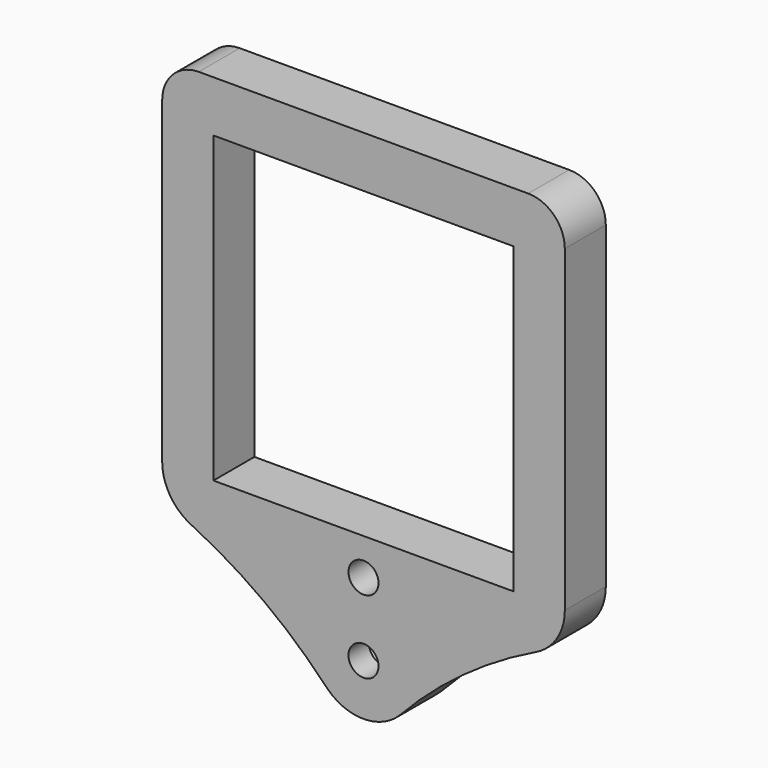
from build123d import *

# Parameters (mm, degrees)
F0_R     = 2.05
F0_W     = 41
F0_H     = 41.5
F1_DEPTH = 3.5
F2_DEPTH = 3.5


with BuildPart() as f1:
    # F0 (on Front) → F1 (new body, symmetric)
    with BuildSketch(Plane.XZ):
        with BuildLine():
            ThreePointArc((-23.473703, -27.086962), (-13.562491, -33.051517), (-4.91486, -40.73439))
            ThreePointArc((-4.91486, -40.73439), (0, -42.75), (4.91486, -40.73439))
            ThreePointArc((4.91486, -40.73439), (13.562491, -33.051517), (23.473703, -27.086962))
            ThreePointArc((23.473703, -27.086962), (26.408296, -24.503936), (27.5, -20.75))
            Line((27.5, -20.75), (27.5, 22.75))
            ThreePointArc((27.5, 22.75), (26.035534, 26.285534), (22.5, 27.75))
            Line((22.5, 27.75), (-22.5, 27.75))
            ThreePointArc((-22.5, 27.75), (-26.035534, 26.285534), (-27.5, 22.75))
            Line((-27.5, 22.75), (-27.5, -20.75))
            ThreePointArc((-27.5, -20.75), (-26.408296, -24.503936), (-23.473703, -27.086962))
        make_face()
        Polygon((4.308476, -33.2625), (4.308476, -38.2375), (0, -40.725), (-4.308476, -38.2375), (-4.308476, -33.2625), (0, -30.775), align=None, mode=Mode.SUBTRACT)
        with Locations((0, -25.75)):
            Circle(F0_R, mode=Mode.SUBTRACT)
        Rectangle(F0_W, F0_H, mode=Mode.SUBTRACT)
    extrude(amount=F1_DEPTH, both=True)

    # F0 (on Front) → F2 (join)
    with BuildSketch(Plane.XZ):
        Polygon((0, -40.725), (4.308476, -38.2375), (4.308476, -33.2625), (0, -30.775), (-4.308476, -33.2625), (-4.308476, -38.2375), align=None)
        with Locations((0, -35.75)):
            Circle(F0_R, mode=Mode.SUBTRACT)
    extrude(amount=F2_DEPTH)


solid = f1.part
